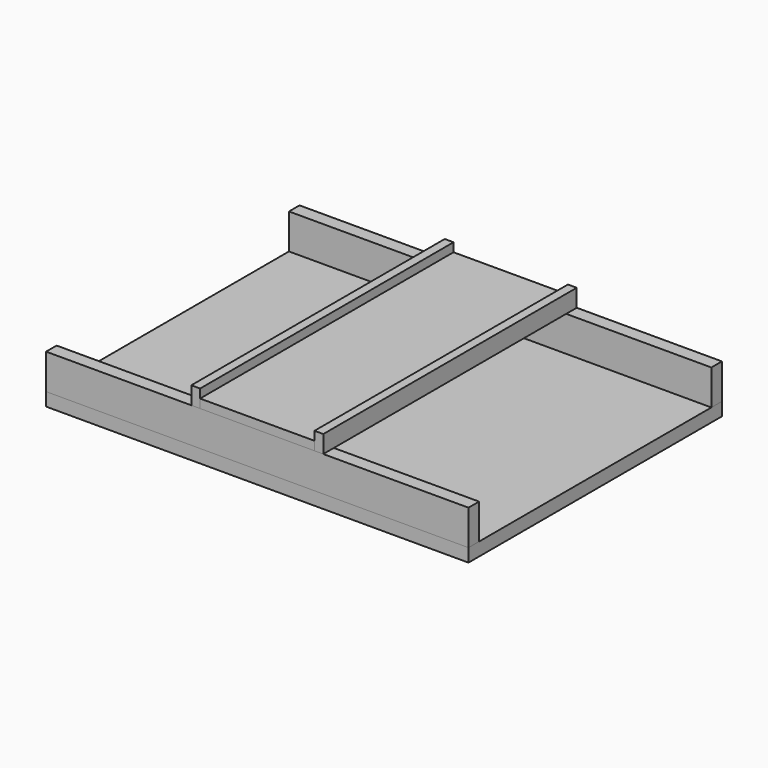
from build123d import *

# Parameters (mm, degrees)
F0_W     = 609.6
F0_H     = 457.2
F1_DEPTH = 19.05
F2_W     = 609.6
F2_H     = 19.05
F3_DEPTH = 50.8
F4_W     = 165.1
F4_H     = 457.2
F5_DEPTH = 12.7
F6_W     = 12.7
F6_H     = 457.2
F7_DEPTH = 25.4


with BuildPart() as f1:
    # F0 (on Top) → F1 (new body)
    with BuildSketch(Plane.XY):
        Rectangle(F0_W, F0_H)
    extrude(amount=F1_DEPTH)


with BuildPart() as f3:
    # F2 (on face) → F3 (new body)
    with BuildSketch(Plane.XY.offset(19.05)):
        with Locations((0, 219.075)):
            Rectangle(F2_W, F2_H)
        with Locations((0, -219.075)):
            Rectangle(F2_W, F2_H)
    extrude(amount=F3_DEPTH)


with BuildPart() as f5:
    # F4 (on face) → F5 (new body)
    with BuildSketch(Plane.XY.offset(69.85)):
        Rectangle(F4_W, F4_H)
    extrude(amount=F5_DEPTH)


with BuildPart() as f7:
    # F6 (on face) → F7 (new body)
    with BuildSketch(Plane.XY.offset(69.85)):
        with Locations((-88.9, 0)):
            Rectangle(F6_W, F6_H)
        with Locations((88.9, 0)):
            Rectangle(F6_W, F6_H)
    extrude(amount=F7_DEPTH)


solid = Compound([f1.part, f3.part, f5.part, f7.part])
